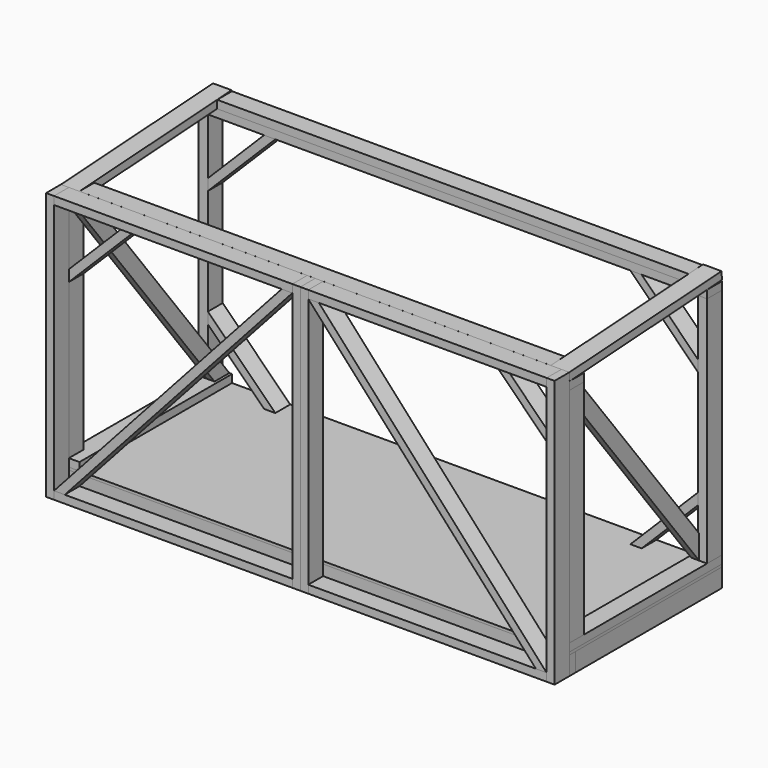
from build123d import *

# Parameters (mm, degrees)
F1_DEPTH  = 88.9
F0_W      = 38.1
F0_H      = 838.2
F2_DEPTH  = 88.9
F3_W      = 2438.4
F3_H      = 914.4
F4_DEPTH  = 12.7
F5_W      = 88.9
F5_H      = 914.4
F6_DEPTH  = 38.1
F7_W      = 38.1
F7_H      = 88.9
F8_DEPTH  = 1066.8
F9_W      = 44.45
F9_H      = 88.9
F10_DEPTH = 1117.6
F12_W     = 2400.3
F12_H     = 88.9
F12_W_2   = 38.1
F13_DEPTH = 38.1
F15_W     = 2438.4
F15_H     = 88.9
F16_DEPTH = 38.1
F18_DEPTH = 88.9
F21_DEPTH = 88.9
F20_W     = 1143
F20_H     = 38.1
F22_DEPTH = 88.9
F24_DEPTH = 88.9
F27_DEPTH = 38.1
F29_DEPTH = 88.9
F33_W     = 2260.6
F33_H     = 88.9
F34_DEPTH = 38.1
F35_W     = 2260.6
F35_H     = 88.9
F36_DEPTH = 38.1
F38_DEPTH = 88.9


with BuildPart() as f1:
    # F0 (on Top) → F1 (new body)
    with BuildSketch(Plane.XY):
        Polygon((1219.2, 419.1), (1219.2, 457.2), (-1219.2, 457.2), (-1219.2, 419.1), (-1181.1, 419.1), (1181.1, 419.1), align=None)
        Polygon((1219.2, -457.2), (1219.2, -419.1), (1181.1, -419.1), (-1181.1, -419.1), (-1219.2, -419.1), (-1219.2, -457.2), align=None)
    extrude(amount=F1_DEPTH)


with BuildPart() as f2:
    # F0 (on Top) → F2 (new body, through all)
    with BuildSketch(Plane.XY):
        with Locations((-1200.15, 0)):
            Rectangle(F0_W, F0_H)
        with Locations((1200.15, 0)):
            Rectangle(F0_W, F0_H)
        Polygon((1219.2, 419.1), (1219.2, 457.2), (-1219.2, 457.2), (-1219.2, 419.1), (-1181.1, 419.1), (1181.1, 419.1), align=None)
    extrude(amount=F2_DEPTH)


with BuildPart() as f4:
    # F3 (on face) → F4 (new body)
    with BuildSketch(Plane.XY.offset(88.9)):
        Rectangle(F3_W, F3_H)
    extrude(amount=F4_DEPTH)


with BuildPart() as f6:
    # F5 (on face) → F6 (new body)
    with BuildSketch(Plane.XY.offset(101.6)):
        with Locations((-1174.75, 0)):
            Rectangle(F5_W, F5_H)
    extrude(amount=F6_DEPTH)


with BuildPart() as f8:
    # F7 (on face) → F8 (new body)
    with BuildSketch(Plane.XY.offset(139.7)):
        with Locations((-1200.15, -412.75)):
            Rectangle(F7_W, F7_H)
    extrude(amount=F8_DEPTH)


with BuildPart() as f10:
    # F9 (on face) → F10 (new body)
    with BuildSketch(Plane.XY.offset(139.7)):
        with Locations((-1196.975, 412.75)):
            Rectangle(F9_W, F9_H)
    extrude(amount=F10_DEPTH)


with BuildPart() as f11_1:
    # F11: instance of F10
    add(f10.part.mirror(Plane.YZ))


with BuildPart() as f11_2:
    # F11: instance of F8
    add(f8.part.mirror(Plane.YZ))


with BuildPart() as f13:
    # F12 (on face) → F13 (new body)
    with BuildSketch(Plane.XY.offset(1206.5)):
        with Locations((19.05, -412.75)):
            Rectangle(F12_W, F12_H)
        with Locations((-1200.15, -412.75)):
            Rectangle(F12_W_2, F12_H)
    extrude(amount=F13_DEPTH)


with BuildPart() as f16:
    # F15 (on face) → F16 (new body)
    with BuildSketch(Plane.XY.offset(1257.3)):
        with Locations((0, 412.75)):
            Rectangle(F15_W, F15_H)
        with Locations((0, 412.75)):
            Rectangle(F15_W, F15_H)
    extrude(amount=F16_DEPTH)


with BuildPart() as f18:
    # F17 (on face) → F18 (new body)
    with BuildSketch(Plane(origin=(-1219.2, 0, 0), x_dir=(0, -1, 0), z_dir=(-1, 0, 0))):
        Polygon((-457.2, 1300.886367), (454.853165, 1244.6), (457.2, 1282.627653), (-454.853165, 1338.914019), align=None)
    extrude(amount=-F18_DEPTH)


with BuildPart() as f19_1:
    # F19: instance of F18
    add(f18.part.mirror(Plane.YZ))


with BuildPart() as f19_2:
    # F19: instance of F6
    add(f6.part.mirror(Plane.YZ))


with BuildPart() as f21:
    # F20 (on face) → F21 (new body)
    with BuildSketch(Plane.XZ.offset(457.2)):
        Polygon((-1219.2, 1282.627653), (-1219.2, 88.9), (-1181.1, 88.9), (-1181.1, 1244.527653), (-1181.1, 1282.627653), align=None)
        Polygon((-1219.2, 88.9), (-1219.2, 0), (-1181.1, 0), (-1181.1, 38.1), (-1181.1, 88.9), align=None)
        Polygon((-38.1, 1244.527653), (-38.1, 88.9), (0, 88.9), (0, 1282.627653), (-38.1, 1282.627653), align=None)
        Polygon((-38.1, 38.1), (-38.1, 0), (0, 0), (0, 88.9), (-38.1, 88.9), align=None)
    extrude(amount=F21_DEPTH)


with BuildPart() as f22:
    # F20 (on face) → F22 (new body, through all)
    with BuildSketch(Plane.XZ.offset(457.2)):
        with Locations((-609.6, 1263.577653)):
            Rectangle(F20_W, F20_H)
        with Locations((-609.6, 19.05)):
            Rectangle(F20_W, F20_H)
    extrude(amount=F22_DEPTH)


with BuildPart() as f24:
    # F23 (on face) → F24 (new body, through all)
    with BuildSketch(Plane.XZ.offset(546.1)):
        Polygon((-38.1, 1244.527653), (-89.481729, 1244.527653), (-1181.1, 38.1), (-1129.718271, 38.1), align=None)
    extrude(amount=-F24_DEPTH)


with BuildPart() as f25_1:
    # F25: instance of F21
    add(f21.part.mirror(Plane.YZ))


with BuildPart() as f25_2:
    # F25: instance of F22
    add(f22.part.mirror(Plane.YZ))


with BuildPart() as f25_3:
    # F25: instance of F24
    add(f24.part.mirror(Plane.YZ))


with BuildPart() as f27:
    # F26 (on face) → F27 (new body)
    with BuildSketch(Plane.YZ.offset(-1181.1)):
        Polygon((457.2, 139.7), (-368.3, 1206.5), (-368.3, 1091.613846), (368.3, 139.7), align=None)
        Polygon((-368.3, 1091.613846), (-368.3, 1206.5), (-457.2, 1206.5), align=None)
    extrude(amount=F27_DEPTH)


with BuildPart() as f29:
    # F28 (on face) → F29 (new body)
    with BuildSketch(Plane(origin=(0, 457.2, 0), x_dir=(-1, 0, 0), z_dir=(0, 1, 0))):
        Polygon((905.342316, 101.6), (1174.75, 371.007684), (1174.75, 424.88922), (851.46078, 101.6), align=None)
    extrude(amount=-F29_DEPTH)


with BuildPart() as f30_1:
    # F30: instance of F27
    add(f27.part.mirror(Plane.YZ))


with BuildPart() as f30_2:
    # F30: instance of F29
    add(f29.part.mirror(Plane.YZ))


with BuildPart() as f32_1:
    # F32: instance of F30_2
    add(f30_2.part.mirror(Plane(origin=(0, 206.375, 679.45), x_dir=(1, 0, 0), z_dir=(0, 0, -1))))


with BuildPart() as f32_2:
    # F32: instance of F29
    add(f29.part.mirror(Plane(origin=(0, 206.375, 679.45), x_dir=(1, 0, 0), z_dir=(0, 0, -1))))


with BuildPart() as f34:
    # F33 (on face) → F34 (new body)
    with BuildSketch(Plane.XY.offset(1295.4)):
        with Locations((0, 412.75)):
            Rectangle(F33_W, F33_H)
    extrude(amount=F34_DEPTH)


with BuildPart() as f36:
    # F35 (on face) → F36 (new body)
    with BuildSketch(Plane.XY.offset(1244.6)):
        with Locations((0, -412.75)):
            Rectangle(F35_W, F35_H)
    extrude(amount=F36_DEPTH)


with BuildPart() as f38:
    # F37 (on face) → F38 (new body)
    with BuildSketch(Plane(origin=(0, -368.3, 0), x_dir=(-1, 0, 0), z_dir=(0, 1, 0))):
        Polygon((-1181.1, 883.21078), (-857.81078, 1206.5), (-911.692316, 1206.5), (-1181.1, 937.092316), align=None)
    extrude(amount=-F38_DEPTH)


with BuildPart() as f39_1:
    # F39: instance of F38
    add(f38.part.mirror(Plane.YZ))


solid = Compound([f1.part, f2.part, f4.part, f6.part, f8.part, f10.part, f11_1.part, f11_2.part, f13.part, f16.part, f18.part, f19_1.part, f19_2.part, f21.part, f22.part, f24.part, f25_1.part, f25_2.part, f25_3.part, f27.part, f29.part, f30_1.part, f30_2.part, f32_1.part, f32_2.part, f34.part, f36.part, f38.part, f39_1.part])
